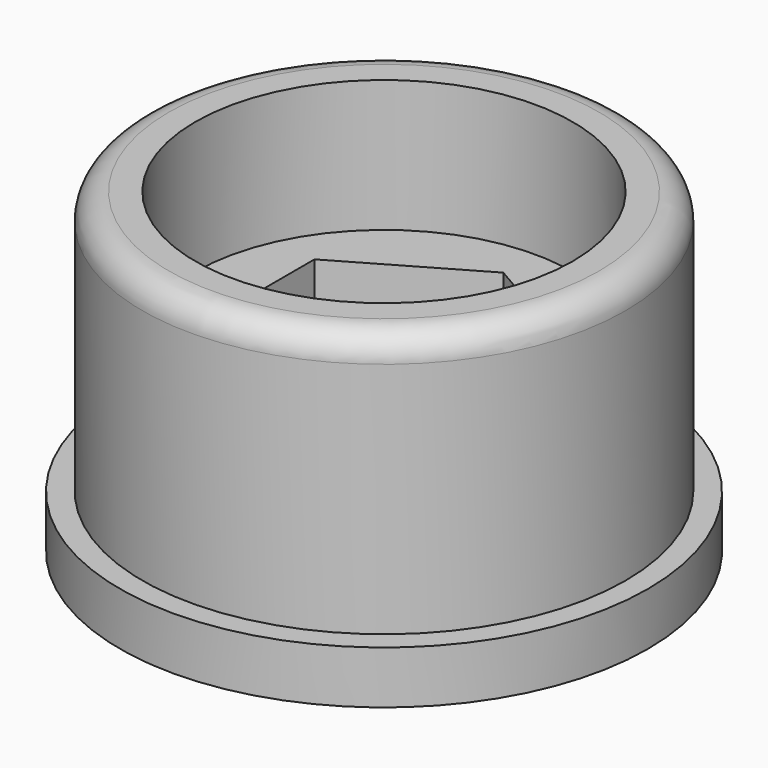
from build123d import *

# Parameters (mm, degrees)
F0_R     = 10
F1_DEPTH = 2
F2_R     = 9.15
F3_DEPTH = 5
F5_DEPTH = 5
F6_R     = 9.15
F6_R_2   = 7.15
F7_DEPTH = 5
F8_R     = 3.1
F9_DEPTH = 12.001
F10_R    = 1


with BuildPart() as f1:
    # F0 (on Top) → F1 (new body)
    with BuildSketch(Plane.XY):
        Circle(F0_R)
    extrude(amount=-F1_DEPTH)

    # F2 (on face) → F3 (join)
    with BuildSketch(Plane.XY):
        Circle(F2_R)
    extrude(amount=F3_DEPTH)

    # F4 (on face) → F5 (cut)
    with BuildSketch(Plane.XY.offset(5)):
        Polygon((4.893044, 2.825), (0, 5.65), (-4.893044, 2.825), (-4.893044, -2.825), (0, -5.65), (4.893044, -2.825), align=None)
    extrude(amount=-F5_DEPTH, mode=Mode.SUBTRACT)

    # F6 (on face) → F7 (join)
    with BuildSketch(Plane.XY.offset(5)):
        Circle(F6_R)
        Circle(F6_R_2, mode=Mode.SUBTRACT)
    extrude(amount=F7_DEPTH)

    # F8 (on face) → F9 (cut, through all)
    with BuildSketch(Plane(origin=(0, 0, -2), x_dir=(1, 0, 0), z_dir=(0, 0, -1))):
        Circle(F8_R)
    extrude(amount=-F9_DEPTH, mode=Mode.SUBTRACT)

    # F10
    f10_edges = [f1.edges().sort_by_distance(p)[0] for p in [
        (-9.15, 0, 10),
    ]]
    fillet(f10_edges, radius=F10_R)


solid = f1.part
